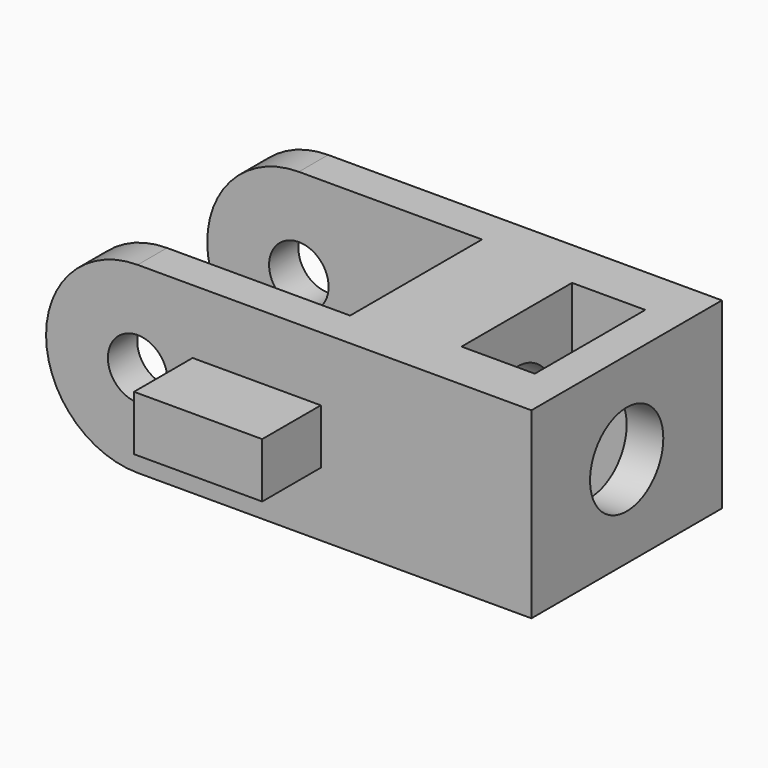
from build123d import *

# Parameters (mm, degrees)
F1_DEPTH  = 5
F2_R      = 1.625
F3_DEPTH  = 25
F4_DEPTH  = 25
F6_DEPTH  = 4
F7_W      = 7
F7_H      = 3
F8_DEPTH  = 4
F9_DEPTH  = 1.5
F11_DEPTH = 7
F13_DEPTH = 25
F14_D     = 5
F14_DEPTH = 20
F14_TIP   = 1.5021515476


with BuildPart() as f1:
    # F0 (on Top) → F1 (new body, symmetric)
    with BuildSketch(Plane.XY):
        Polygon((0, -6.5188171205), (-15, -6.5188171205), (-15, -8.5188171205), (3, -8.5188171205), (3, 4.4811828795), (-15, 4.4811828795), (-15, 2.4811828795), (0, 2.4811828795), (0, 0), align=None)
    extrude(amount=F1_DEPTH, both=True)

    # F2 (on face) → F3 (cut)
    with BuildSketch(Plane.XZ.offset(8.5188171205)):
        with Locations((-10, 0)):
            Circle(F2_R)
    extrude(amount=-F3_DEPTH, mode=Mode.SUBTRACT)

    # F2 (on face) → F4 (cut)
    with BuildSketch(Plane.XZ.offset(8.5188171205)):
        with BuildLine():
            ThreePointArc((-15, 0), (-13.5355339059, 3.5355339059), (-10, 5))
            Line((-10, 5), (-15, 5))
            Line((-15, 5), (-15, 0))
        make_face()
        with BuildLine():
            Line((-15, -5), (-10, -5))
            ThreePointArc((-10, -5), (-13.5355339059, -3.5355339059), (-15, 0))
            Line((-15, 0), (-15, -5))
        make_face()
    extrude(amount=-F4_DEPTH, mode=Mode.SUBTRACT)

    # F5 (on face) → F6 (join)
    with BuildSketch(Plane.XZ.offset(8.5188171205)):
        Polygon((0, 0), (0, 1.5), (-7, 1.5), (-7, -1.5), (0, -1.5), align=None)
    extrude(amount=F6_DEPTH)

    # F7 (on face) → F8 (join)
    with BuildSketch(Plane(origin=(0, 4.4811828795, 0), x_dir=(-1, 0, 0), z_dir=(0, 1, 0))):
        with Locations((3.5, 0)):
            Rectangle(F7_W, F7_H)
    extrude(amount=F8_DEPTH)

    # F9 (add): a face of the model
    f9_faces = [f1.faces().sort_by_distance(p)[0] for p in [
        (3, -2.0188171205, 0),
    ]]
    extrude(f9_faces, amount=F9_DEPTH)

    # F11 (add): a face of the model
    f11_faces = [f1.faces().sort_by_distance(p)[0] for p in [
        (4.5, -2.0188171205, 0),
    ]]
    extrude(f11_faces, amount=F11_DEPTH)

    # F12 (on face) → F13 (cut)
    with BuildSketch(Plane(origin=(0, 0, -5), x_dir=(1, 0, 0), z_dir=(0, 0, -1))):
        Polygon((9.5, -1.7511828795), (9.5, 2.0188171205), (9.5, 5.7888171205), (5.5, 5.7888171205), (5.5, -1.7511828795), align=None)
    extrude(amount=-F13_DEPTH, mode=Mode.SUBTRACT)

    # F14
    with Locations(Plane(origin=(0, 0, 0), x_dir=(0, -1, 0), z_dir=(-1, 0, 0))):
        with Locations((2.0188171205, 0)):
            Hole(F14_D / 2, depth=F14_DEPTH)
            with Locations((0, 0, -(F14_DEPTH + F14_TIP / 2))):  # 118° drill point
                Cone(0, F14_D / 2, F14_TIP, mode=Mode.SUBTRACT)


solid = f1.part
